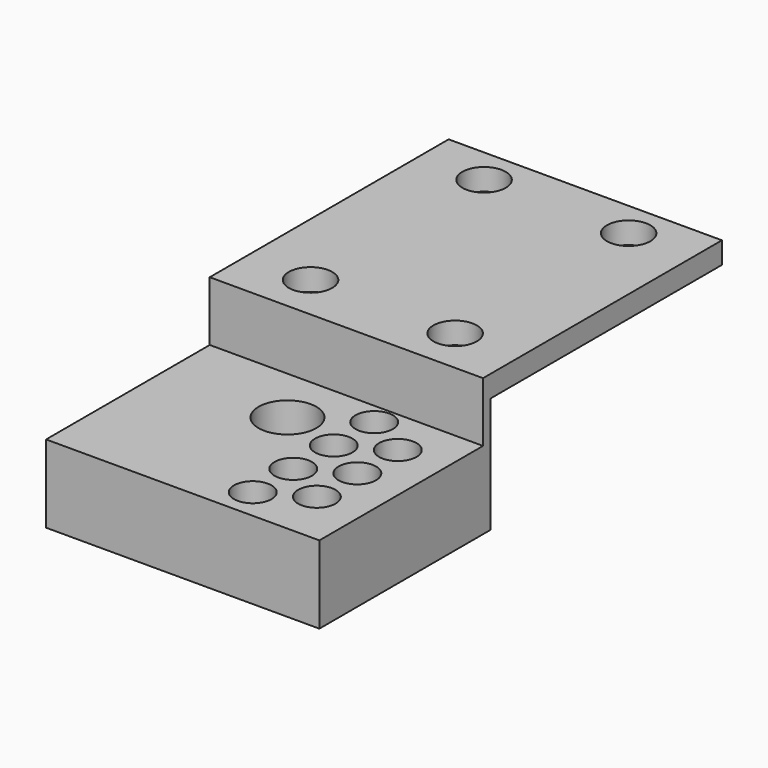
from build123d import *

# Parameters (mm, degrees)
SKETCH_W        = 18.9
SKETCH_H        = 34.8
SKETCH_R        = 1.5
PAD_DEPTH       = 1.5
SKETCH001_W     = 18.9
SKETCH001_H     = 14.8
PAD001_DEPTH    = 8
SKETCH002_R     = 1.2954
POCKET_DEPTH    = 9.501
SKETCH003_R     = 2
POCKET001_DEPTH = 8.5
SKETCH004_R     = 1.5
POCKET002_DEPTH = 1.001
SKETCH005_W     = 18.9
SKETCH005_H     = 14.1486
POCKET003_DEPTH = 4.1246


with BuildPart() as part:
    # Sketch (on Face6 of Binder) → Pad (new body)
    with BuildSketch(Plane.XY.offset(8)):
        with Locations((14.45, 2.6)):
            Rectangle(SKETCH_W, SKETCH_H)
        with Locations((9.45, 17.5)):
            Circle(SKETCH_R, mode=Mode.SUBTRACT)
        with Locations((9.45, 2.5)):
            Circle(SKETCH_R, mode=Mode.SUBTRACT)
        with Locations((19.45, 2.5)):
            Circle(SKETCH_R, mode=Mode.SUBTRACT)
        with Locations((19.45, 17.5)):
            Circle(SKETCH_R, mode=Mode.SUBTRACT)
    extrude(amount=PAD_DEPTH)

    # Sketch001 (on Face9 of Pad) → Pad001 (join)
    with BuildSketch(Plane(origin=(0, 0, 8), x_dir=(1, 0, 0), z_dir=(0, 0, -1))):
        with Locations((14.45, 7.4)):
            Rectangle(SKETCH001_W, SKETCH001_H)
    extrude(amount=PAD001_DEPTH)

    # Sketch002 (on Face15 of Pad001) → Pocket (cut, through all)
    with BuildSketch(Plane(origin=(0, 0, 0), x_dir=(1, 0, 0), z_dir=(0, 0, -1))):
        with Locations((17.573511, 2.15)):
            Circle(SKETCH002_R)
        with Locations((20.6046, 3.9)):
            Circle(SKETCH002_R)
        with Locations((17.573511, 5.65)):
            Circle(SKETCH002_R)
        with Locations((17.573511, 9.15)):
            Circle(SKETCH002_R)
        with Locations((20.6046, 10.9)):
            Circle(SKETCH002_R)
        with Locations((20.6046, 7.4)):
            Circle(SKETCH002_R)
        with Locations((17.573511, 12.65)):
            Circle(SKETCH002_R)
    extrude(amount=-POCKET_DEPTH, mode=Mode.SUBTRACT)

    # Sketch003 (on Face5 of Pocket) → Pocket001 (cut)
    with BuildSketch(Plane.XY.offset(9.5)):
        with Locations((13.573511, -4.65)):
            Circle(SKETCH003_R)
    extrude(amount=-POCKET001_DEPTH, mode=Mode.SUBTRACT)

    # Sketch004 (on Face24 of Pocket001) → Pocket002 (cut, through all)
    with BuildSketch(Plane.XY.offset(1)):
        with Locations((9.45, 2.5)):
            Circle(SKETCH004_R)
    extrude(amount=-POCKET002_DEPTH, mode=Mode.SUBTRACT)

    # Sketch005 (on Face5 of Pocket002) → Pocket003 (cut)
    with BuildSketch(Plane.XY.offset(9.5)):
        with Locations((14.45, -7.7257)):
            Rectangle(SKETCH005_W, SKETCH005_H)
    extrude(amount=-POCKET003_DEPTH, mode=Mode.SUBTRACT)


solid = part.part
